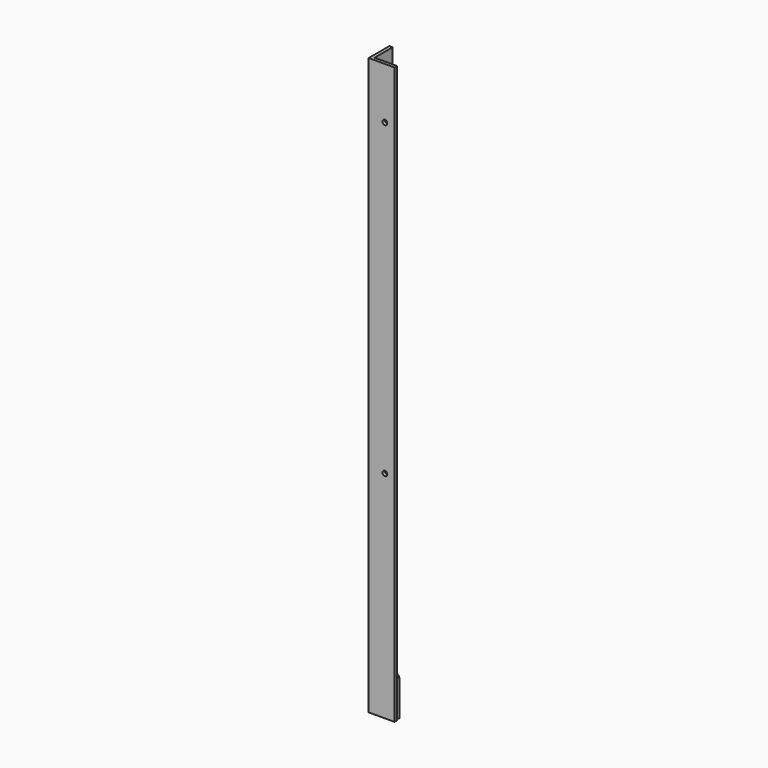
from build123d import *

# Parameters (mm, degrees)
F1_DEPTH = 568.325
F2_R     = 2.38125
F3_DEPTH = 3.175
F4_R     = 2.38125
F5_DEPTH = 3.175
F7_DEPTH = 3.175
F9_DEPTH = 35.56


with BuildPart() as f1:
    # F0 (on Top) → F1 (new body)
    with BuildSketch(Plane.XY):
        Polygon((0, 25.4), (0, 0), (25.4, 0), (25.4, 3.175), (3.175, 3.175), (3.175, 25.4), align=None)
    extrude(amount=F1_DEPTH)

    # F2 (on face) → F3 (cut)
    with BuildSketch(Plane(origin=(0, 0, 0), x_dir=(0, -1, 0), z_dir=(-1, 0, 0))):
        with Locations((-15.875, 539.75)):
            Circle(F2_R)
        with Locations((-15.875, 458.7875)):
            Circle(F2_R)
        with Locations((-15.875, 106.3734107818)):
            Circle(F2_R)
    extrude(amount=-F3_DEPTH, mode=Mode.SUBTRACT)

    # F4 (on face) → F5 (cut)
    with BuildSketch(Plane.XZ):
        with Locations((15.875, 517.525)):
            Circle(F4_R)
        with Locations((15.875, 212.725)):
            Circle(F4_R)
    extrude(amount=-F5_DEPTH, mode=Mode.SUBTRACT)

    # F6 (on face) → F7 (cut)
    with BuildSketch(Plane(origin=(0, 0, 0), x_dir=(0, -1, 0), z_dir=(-1, 0, 0))):
        Polygon((-25.4, 0), (-4.7625, 0), (-4.7625, 38.1), (-25.4, 46.4380912357), align=None)
    extrude(amount=-F7_DEPTH, mode=Mode.SUBTRACT)

    # F8 (on face) → F9 (join)
    with BuildSketch(Plane(origin=(0, 0, 0), x_dir=(1, 0, 0), z_dir=(0, 0, -1))):
        with BuildLine():
            ThreePointArc((13.0437542426, -9.5063361704), (12.8721302689, -9.520330609), (12.7, -9.525))
            Line((12.7, -9.525), (12.7, -12.7))
            ThreePointArc((12.7, -12.7), (13.0442605378, -12.6906612181), (13.3875084853, -12.6626723408))
            ThreePointArc((13.3875084853, -12.6626723408), (19.5337619369, -10.8104975605), (24.6005143968, -6.8690508185))
            Line((24.6005143968, -6.8690508185), (22.225, -4.7625))
            ThreePointArc((22.225, -4.7625), (18.0763265852, -7.9897694283), (13.0437542426, -9.5063361704))
        make_face()
        with BuildLine():
            ThreePointArc((12.7, -9.525), (12.5278697311, -9.520330609), (12.3562457574, -9.5063361704))
            ThreePointArc((12.3562457574, -9.5063361704), (7.3236734148, -7.9897694283), (3.175, -4.7625))
            Line((3.175, -4.7625), (0, -4.7625))
            ThreePointArc((0, -4.7625), (0.2065927495, -5.8890803989), (0.7994856032, -6.8690508185))
            ThreePointArc((0.7994856032, -6.8690508185), (5.8662380631, -10.8104975605), (12.0124915147, -12.6626723408))
            ThreePointArc((12.0124915147, -12.6626723408), (12.3557394622, -12.6906612181), (12.7, -12.7))
            Line((12.7, -12.7), (12.7, -9.525))
        make_face()
    extrude(amount=-F9_DEPTH)


solid = f1.part
